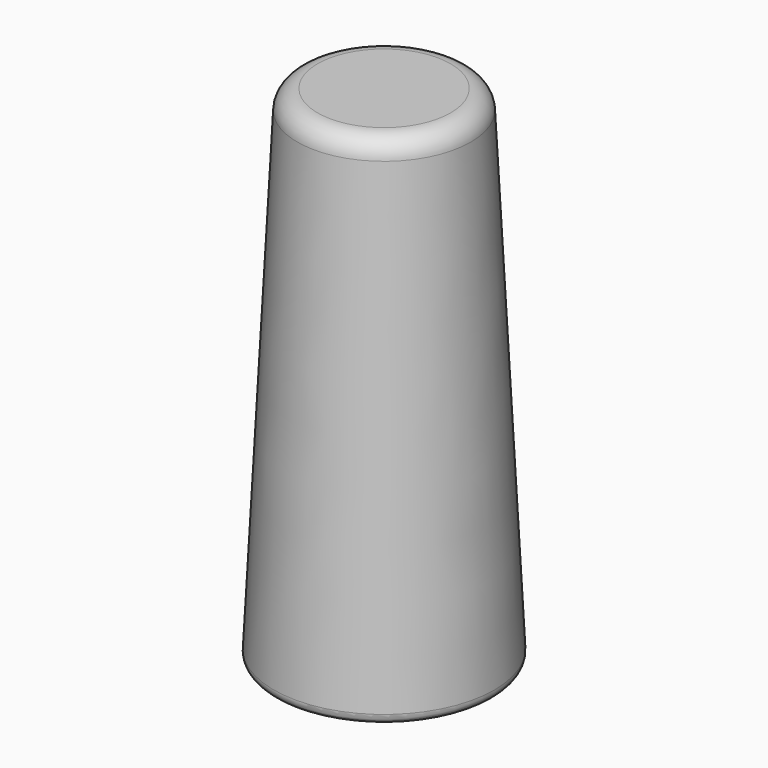
from build123d import *

# Parameters (mm, degrees)
FILLET008_R = 2
FILLET013_R = 4


with BuildPart() as part:
    # Cone003 → Cone003 (revolve)
    with BuildSketch(Plane(origin=(7, -12, -84), x_dir=(1, 0, 0), z_dir=(0, -1, 0))):
        Polygon((0, 0), (22, 0), (17, 100), (0, 100), align=None)
    revolve(axis=Axis((7, -12, -84), (0, 0, 1)))

    # Fillet008
    fillet008_edges = [part.edges().sort_by_distance(p)[0] for p in [
        (-15, -12, -84),
    ]]
    fillet(fillet008_edges, radius=FILLET008_R)


with BuildPart() as part_1:
    # Fillet008 placement: moved
    add(part.part.moved(Location((2, -3, 17))))

    # Fillet013
    fillet013_edges = [part_1.edges().sort_by_distance(p)[0] for p in [
        (-8, -15, 33),
    ]]
    fillet(fillet013_edges, radius=FILLET013_R)


solid = part_1.part
